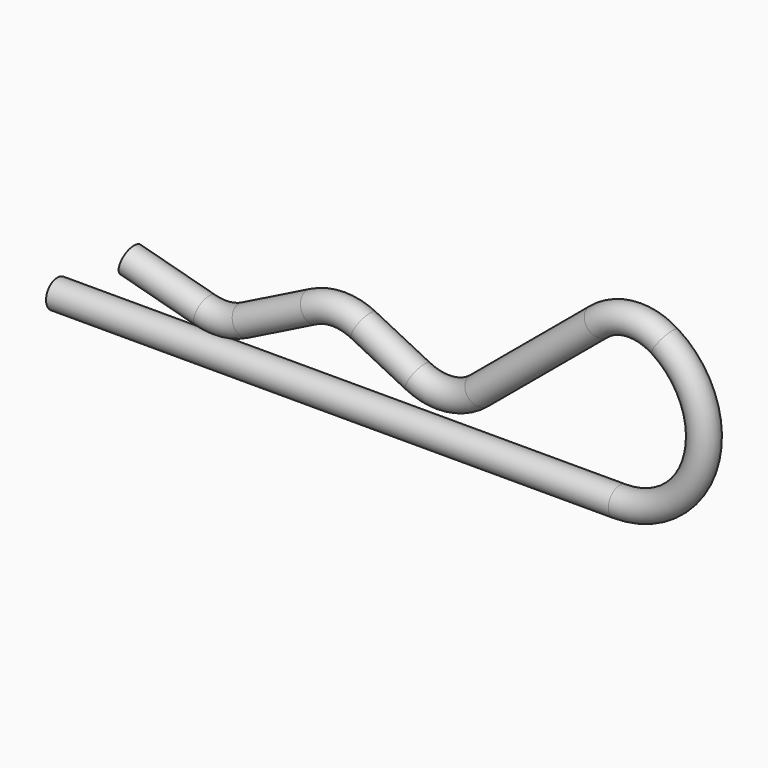
from build123d import *

# Parameters (mm, degrees)
F1_R = 1.5875


with BuildPart() as f2:
    # F2: sweep along a path in F0
    with BuildLine(Plane.XZ) as f2_path:
        Line((0, 0), (63.5, 0))
        ThreePointArc((63.5, 0), (72.645486, 6.863101), (68.611677, 17.562188))
        ThreePointArc((68.611677, 17.562188), (64.796928, 18.541008), (61.138721, 17.082268))
        Line((61.138721, 17.082268), (47.640422, 5.833685))
        ThreePointArc((47.640422, 5.833685), (44.307333, 4.404232), (40.735445, 5.032278))
        Line((40.735445, 5.032278), (34.589806, 8.105097))
        ThreePointArc((34.589806, 8.105097), (31.75, 8.775484), (28.910194, 8.105097))
        Line((28.910194, 8.105097), (21.205501, 4.25275))
        ThreePointArc((21.205501, 4.25275), (19.005475, 3.614675), (16.722193, 3.798734))
        Line((16.722193, 3.798734), (8.256417, 6.067132))
    # F1 (on Right) → F2 (sweep)
    with BuildSketch(Plane.YZ):
        Circle(F1_R)
    sweep(path=f2_path.line)


solid = f2.part
